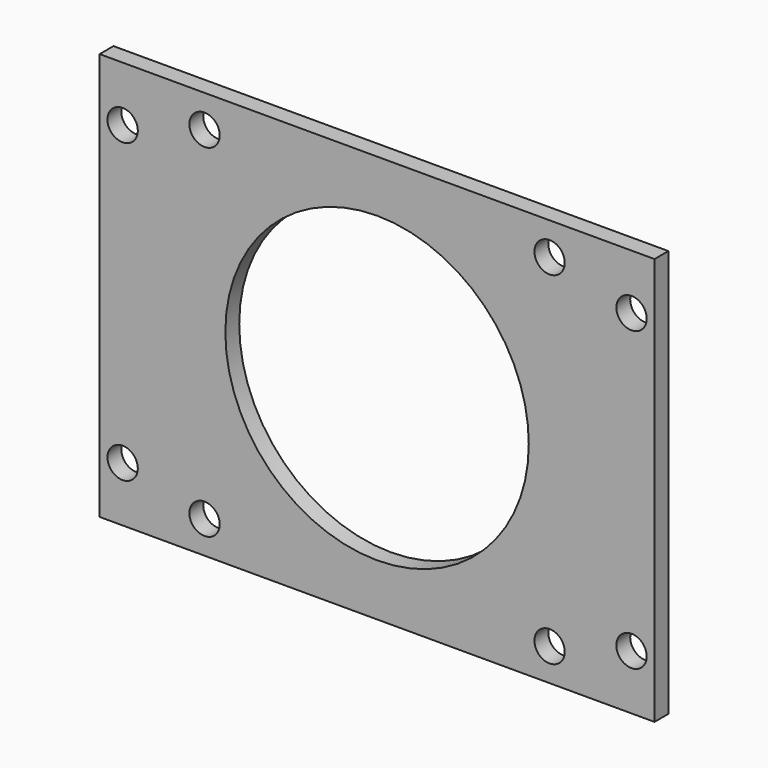
from build123d import *

# Parameters (mm, degrees)
F0_W     = 64
F0_H     = 47
F1_DEPTH = 2
F2_D     = 3.5
F3_R     = 17.5
F4_DEPTH = 25


with BuildPart() as f1:
    # F0 (on Front) → F1 (new body)
    with BuildSketch(Plane.XZ):
        Rectangle(F0_W, F0_H)
    extrude(amount=F1_DEPTH)

    # F2 (through all)
    with Locations(Plane(origin=(0, 0, 0), x_dir=(1, 0, 0), z_dir=(0, 1, 0))):
        with Locations((-29.35, 17.15), (-19.9, 19.75), (19.9, 19.75), (29.35, 17.15), (29.35, -17.15), (19.9, -19.75), (-19.9, -19.75), (-29.35, -17.15)):
            Hole(F2_D / 2)

    # F3 (on face) → F4 (cut)
    with BuildSketch(Plane.XZ.offset(2)):
        Circle(F3_R)
    extrude(amount=-F4_DEPTH, mode=Mode.SUBTRACT)


solid = f1.part
